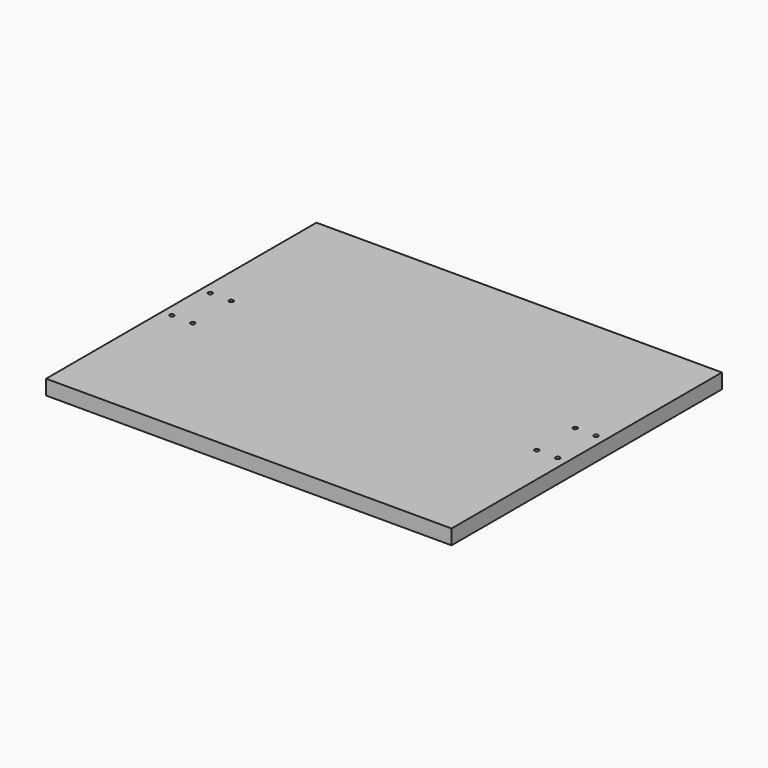
from build123d import *

# Parameters (mm, degrees)
F0_W           = 600
F0_H           = 500
F1_DEPTH       = 22
F3_D           = 6.3
F3_CSINK_D     = 13.44
F3_CSINK_ANGLE = 90


with BuildPart() as f1:
    # F0 (on Top) → F1 (new body)
    with BuildSketch(Plane.XY):
        with Locations((300, 250)):
            Rectangle(F0_W, F0_H)
    extrude(amount=F1_DEPTH)

    # F3 (through all)
    with Locations(Plane(origin=(0, 0, 0), x_dir=(1, 0, 0), z_dir=(0, 0, -1))):
        with Locations((14.5, -214.5), (45.5, -214.5), (14.5, -285.5), (45.5, -285.5), (554.5, -214.5), (585.5, -214.5), (554.5, -285.5), (585.5, -285.5)):
            CounterSinkHole(F3_D / 2, F3_CSINK_D / 2, counter_sink_angle=F3_CSINK_ANGLE)


solid = f1.part
